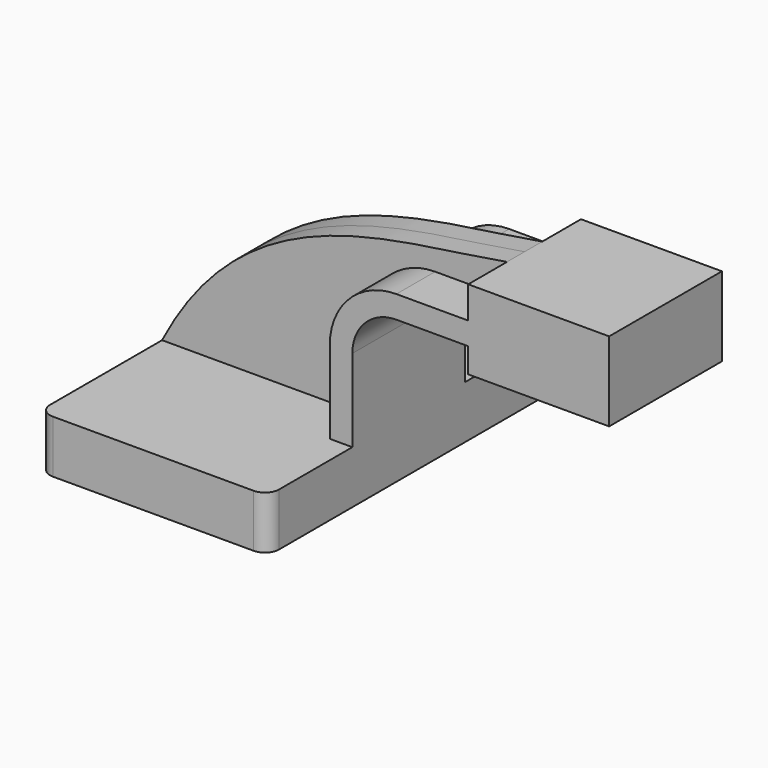
from build123d import *

# Parameters (mm, degrees)
F1_DEPTH = 63.5
F2_DEPTH = 25.4
F3_DEPTH = 7.9375
F4_R     = 5.08


with BuildPart() as f1:
    # F0 (on Front) → F1 (new body, symmetric)
    with BuildSketch(Plane.XZ):
        Polygon((41.275, -9.525), (41.275, 9.525), (33.147, 9.525), (-41.275, 9.525), (-41.275, -9.525), align=None)
    extrude(amount=F1_DEPTH, both=True)

    # F0 (on Front) → F2 (join, symmetric)
    with BuildSketch(Plane.XZ):
        with BuildLine():
            Line((33.147, 9.525), (41.275, 9.525))
            Line((41.275, 9.525), (41.275, 39.270175))
            ThreePointArc((41.275, 39.270175), (45.92468, 50.495495), (57.15, 55.145175))
            Line((57.15, 55.145175), (83.04214, 55.145175))
            Line((83.04214, 55.145175), (83.04214, 63.273175))
            Line((83.04214, 63.273175), (57.15, 63.273175))
            ThreePointArc((57.15, 63.273175), (40.177316, 56.242859), (33.147, 39.270175))
            Line((33.147, 39.270175), (33.147, 9.525))
        make_face()
        Polygon((133.84214, 74.787841), (83.04214, 74.787841), (83.04214, 63.273175), (83.04214, 55.145175), (83.04214, 46.212841), (133.84214, 46.212841), align=None)
    extrude(amount=F2_DEPTH, both=True)

    # F0 (on Front) → F3 (join, symmetric)
    with BuildSketch(Plane.XZ):
        with BuildLine():
            Line((-41.275, 9.525), (33.147, 9.525))
            Line((33.147, 9.525), (33.147, 39.270175))
            ThreePointArc((33.147, 39.270175), (40.177316, 56.242859), (57.15, 63.273175))
            Line((57.15, 63.273175), (83.04214, 63.273175))
            Line((83.04214, 63.273175), (83.04214, 74.787841))
            add(Edge.make_bspline(
                [(-41.275, 9.525), (-10.652266, 69.008738), (42.873295, 67.373856), (83.04214, 74.787841)],
                knots=[0, 0, 0, 0, 140.406516, 140.406516, 140.406516, 140.406516], degree=3))
        make_face()
    extrude(amount=F3_DEPTH, both=True)

    # F4
    f4_edges = [f1.edges().sort_by_distance(p)[0] for p in [
        (-41.275, -63.5, 0),
        (41.275, -63.5, 0),
        (41.275, 63.5, 0),
        (-41.275, 63.5, 0),
    ]]
    fillet(f4_edges, radius=F4_R)


solid = f1.part
